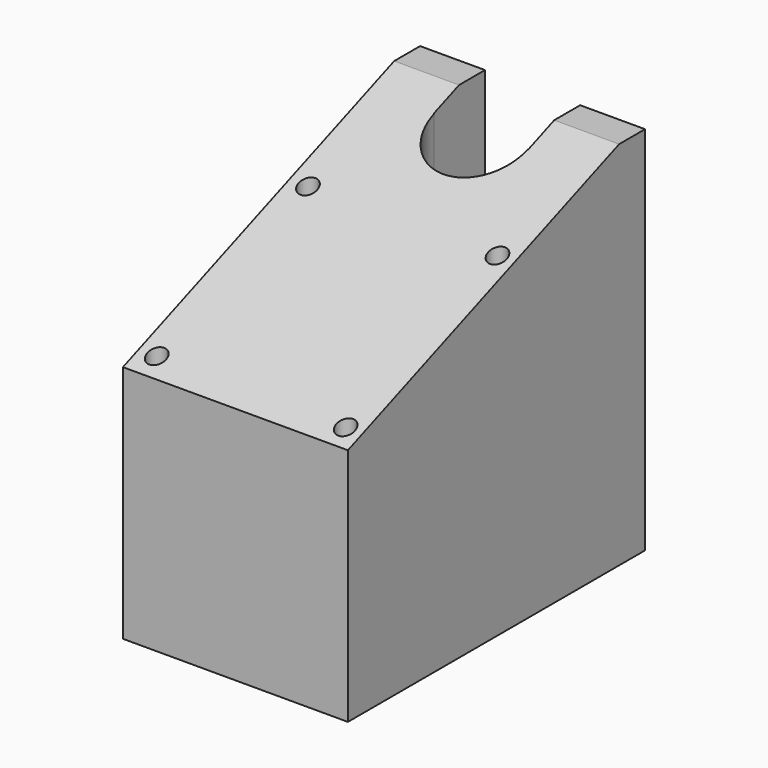
from build123d import *

# Parameters (mm, degrees)
F0_R     = 1.5
F1_DEPTH = 60
F3_DEPTH = 36.401


with BuildPart() as f1:
    # F0 (on Top) → F1 (new body)
    with BuildSketch(Plane.XY):
        with BuildLine():
            Line((41.158495, -26.509628), (41.158495, 9.990372))
            Line((41.158495, 9.990372), (41.158495, 33.590372))
            Line((41.158495, 33.590372), (30.658495, 33.590372))
            Line((30.658495, 33.590372), (30.658495, 23.090372))
            Line((30.658495, 23.090372), (30.587656, 23.090927))
            ThreePointArc((30.587656, 23.090927), (22.898785, 15.521476), (15.329334, 23.210347))
            Line((15.329334, 23.210347), (15.258495, 23.210902))
            Line((15.258495, 23.210902), (15.258495, 33.590372))
            Line((15.258495, 33.590372), (4.758495, 33.590372))
            Line((4.758495, 33.590372), (4.758495, 9.990372))
            Line((4.758495, 9.990372), (4.758495, -26.509628))
            Line((4.758495, -26.509628), (41.158495, -26.509628))
        make_face()
        with Locations((7.697332, -23.348416)):
            Circle(F0_R, mode=Mode.SUBTRACT)
        with Locations((38.412604, -23.529183)):
            Circle(F0_R, mode=Mode.SUBTRACT)
        with Locations((7.79681, 7.112169)):
            Circle(F0_R, mode=Mode.SUBTRACT)
        with Locations((38.370336, 7.227415)):
            Circle(F0_R, mode=Mode.SUBTRACT)
    extrude(amount=F1_DEPTH)

    # F2 (on face) → F3 (cut, through all)
    with BuildSketch(Plane(origin=(4.758495, 0, 0), x_dir=(0, -1, 0), z_dir=(-1, 0, 0))):
        Polygon((26.509628, 60), (-28.34104, 60), (26.509628, 38.699873), align=None)
    extrude(amount=-F3_DEPTH, mode=Mode.SUBTRACT)


solid = f1.part
